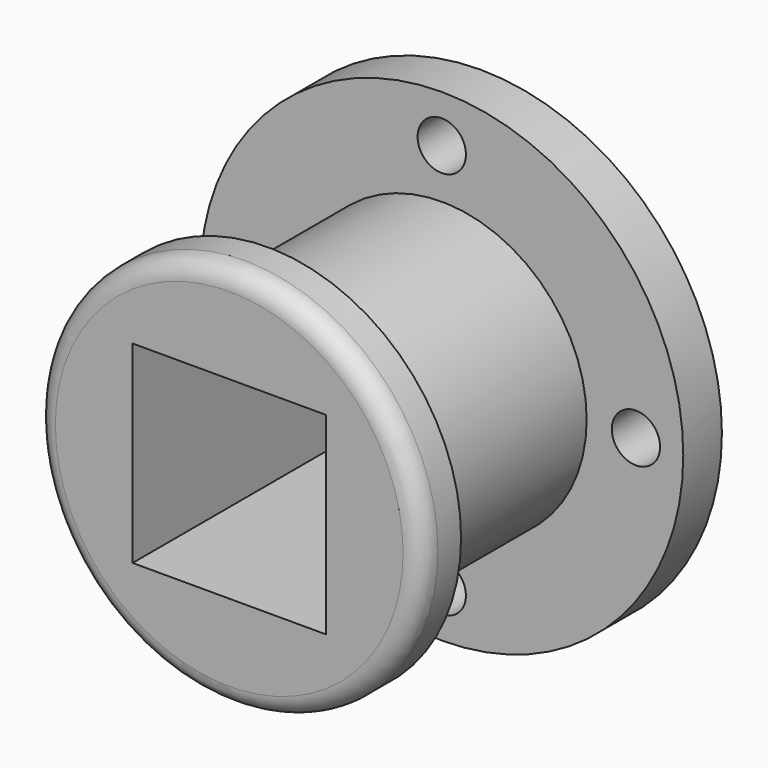
from build123d import *

# Parameters (mm, degrees)
F0_R      = 63.5
F1_DEPTH  = 12.7
F2_R      = 38.1
F3_DEPTH  = 57.15
F5_R      = 6.35
F6_DEPTH  = 25.4
F4_R      = 50.8
F4_R_2    = 38.1
F7_DEPTH  = 12.7
F9_R      = 5.08
F8_W      = 50.8
F8_H      = 50.8
F10_DEPTH = 127


with BuildPart() as f1:
    # F0 (on Front) → F1 (new body)
    with BuildSketch(Plane.XZ):
        Circle(F0_R)
    extrude(amount=F1_DEPTH)

    # F2 (on face) → F3 (join)
    with BuildSketch(Plane.XZ.offset(12.7)):
        Circle(F2_R)
    extrude(amount=F3_DEPTH)

    # F5 (on face) → F6 (cut)
    with BuildSketch(Plane(origin=(0, 0, 0), x_dir=(-1, 0, 0), z_dir=(0, 1, 0))):
        with Locations((0, 51.054977)):
            Circle(F5_R)
        with Locations((-51.054977, 0)):
            Circle(F5_R)
        with Locations((0, -51.054977)):
            Circle(F5_R)
        with Locations((51.054977, 0)):
            Circle(F5_R)
    extrude(amount=-F6_DEPTH, mode=Mode.SUBTRACT)

    # F4 (on face) → F7 (join)
    with BuildSketch(Plane.XZ.offset(69.85)):
        Circle(F4_R)
        Circle(F4_R_2, mode=Mode.SUBTRACT)
        Circle(F4_R_2)
    extrude(amount=F7_DEPTH)

    # F9
    f9_edges = [f1.edges().sort_by_distance(p)[0] for p in [
        (-50.8, -82.55, 0),
    ]]
    fillet(f9_edges, radius=F9_R)

    # F8 (on face) → F10 (cut)
    with BuildSketch(Plane.XZ.offset(82.55)):
        Rectangle(F8_W, F8_H)
    extrude(amount=-F10_DEPTH, mode=Mode.SUBTRACT)


solid = f1.part
